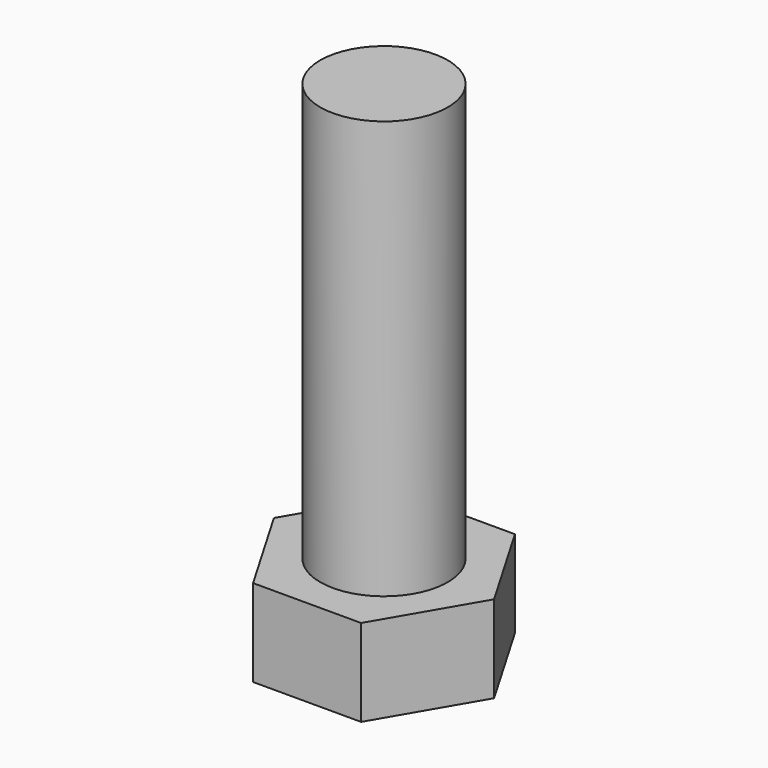
from build123d import *

# Parameters (mm, degrees)
F1_DEPTH = 6.35
F3_DEPTH = 30.48


with BuildPart() as f1:
    # F0 (on Top) → F1 (new body)
    with BuildSketch(Plane.XY):
        with BuildLine():
            Line((-4.9193716261, 40.5964435692), (-8.8563716261, 40.5964435692))
            Line((-8.8563716261, 40.5964435692), (-8.8563716261, 38.2469435692))
            ThreePointArc((-8.8563716261, 38.2469435692), (-5.5606176297, 36.8817975657), (-4.1954716261, 33.5860435692))
            Line((-4.1954716261, 33.5860435692), (-0.8299716261, 33.5860435692))
            Line((-0.8299716261, 33.5860435692), (-4.9193716261, 40.5964435692))
        make_face()
        with BuildLine():
            Line((-8.8563716261, 38.2469435692), (-8.8563716261, 40.5964435692))
            Line((-8.8563716261, 40.5964435692), (-12.7933716261, 40.5964435692))
            Line((-12.7933716261, 40.5964435692), (-16.8827716261, 33.5860435692))
            Line((-16.8827716261, 33.5860435692), (-13.5172716261, 33.5860435692))
            ThreePointArc((-13.5172716261, 33.5860435692), (-12.1521256225, 36.8817975657), (-8.8563716261, 38.2469435692))
        make_face()
        with BuildLine():
            ThreePointArc((-8.8563716261, 28.9251435692), (-12.1521256225, 30.2902895728), (-13.5172716261, 33.5860435692))
            Line((-13.5172716261, 33.5860435692), (-16.8827716261, 33.5860435692))
            Line((-16.8827716261, 33.5860435692), (-12.7933716261, 26.5756435692))
            Line((-12.7933716261, 26.5756435692), (-8.8563716261, 26.5756435692))
            Line((-8.8563716261, 26.5756435692), (-8.8563716261, 28.9251435692))
        make_face()
        with BuildLine():
            Line((-0.8299716261, 33.5860435692), (-4.1954716261, 33.5860435692))
            ThreePointArc((-4.1954716261, 33.5860435692), (-5.5606176297, 30.2902895728), (-8.8563716261, 28.9251435692))
            Line((-8.8563716261, 28.9251435692), (-8.8563716261, 26.5756435692))
            Line((-8.8563716261, 26.5756435692), (-4.9193716261, 26.5756435692))
            Line((-4.9193716261, 26.5756435692), (-0.8299716261, 33.5860435692))
        make_face()
        with BuildLine():
            Line((-8.8563716261, 33.5860435692), (-8.8563716261, 38.2469435692))
            ThreePointArc((-8.8563716261, 38.2469435692), (-12.1521256225, 36.8817975657), (-13.5172716261, 33.5860435692))
            Line((-13.5172716261, 33.5860435692), (-8.8563716261, 33.5860435692))
        make_face()
        with BuildLine():
            ThreePointArc((-4.1954716261, 33.5860435692), (-5.5606176297, 36.8817975657), (-8.8563716261, 38.2469435692))
            Line((-8.8563716261, 38.2469435692), (-8.8563716261, 33.5860435692))
            Line((-8.8563716261, 33.5860435692), (-4.1954716261, 33.5860435692))
        make_face()
        with BuildLine():
            Line((-4.1954716261, 33.5860435692), (-8.8563716261, 33.5860435692))
            Line((-8.8563716261, 33.5860435692), (-8.8563716261, 28.9251435692))
            ThreePointArc((-8.8563716261, 28.9251435692), (-5.5606176297, 30.2902895728), (-4.1954716261, 33.5860435692))
        make_face()
        with BuildLine():
            Line((-8.8563716261, 28.9251435692), (-8.8563716261, 33.5860435692))
            Line((-8.8563716261, 33.5860435692), (-13.5172716261, 33.5860435692))
            ThreePointArc((-13.5172716261, 33.5860435692), (-12.1521256225, 30.2902895728), (-8.8563716261, 28.9251435692))
        make_face()
    extrude(amount=-F1_DEPTH)

    # F2 (on face) → F3 (join)
    with BuildSketch(Plane.XY):
        with BuildLine():
            Line((-13.5045716261, 33.5860435692), (-4.2081716261, 33.5860435692))
            ThreePointArc((-4.2081716261, 33.5860435692), (-8.8563716261, 38.2342435692), (-13.5045716261, 33.5860435692))
        make_face()
        with BuildLine():
            ThreePointArc((-13.5045716261, 33.5860435692), (-8.8563716261, 28.9378435692), (-4.2081716261, 33.5860435692))
            Line((-4.2081716261, 33.5860435692), (-13.5045716261, 33.5860435692))
        make_face()
    extrude(amount=F3_DEPTH)


solid = f1.part
